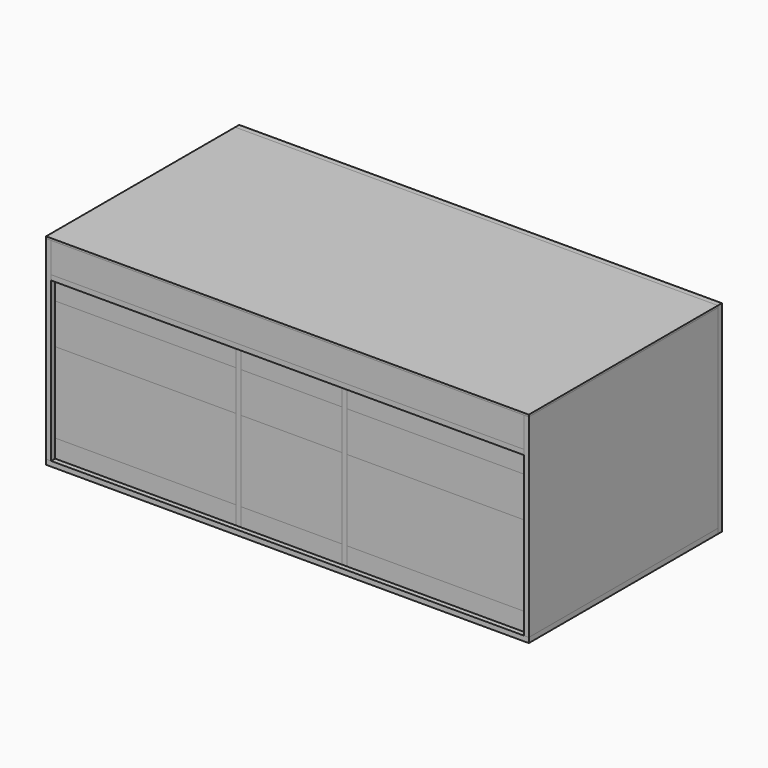
from build123d import *

# Parameters (mm, degrees)
F5_W      = 12.7
F5_H      = 5
F5_W_2    = 254
F6_DEPTH  = 596.9
F5_H_2    = 45.8
F5_H_3    = 101.6
F5_H_4    = 50.8
F5_H_5    = 76.2
F5_H_6    = 203.2
F5_H_7    = 12.7
F7_DEPTH  = 596.9
F8_DEPTH  = 596.9
F9_DEPTH  = 584.2
F10_DEPTH = 584.2
F11_DEPTH = 596.9
F5_W_3    = 457.2
F12_DEPTH = 12.7
F13_DEPTH = 596.9
F14_W     = 23.5690682663
F14_H     = 76.2
F15_DEPTH = 1193.8
F16_DEPTH = 584.2
F17_T     = -5
F17_2_T   = -5
F17_3_T   = -5
F17_4_T   = -5
F17_5_T   = -5
F17_6_T   = -5
F18_DEPTH = 584.2
F19_T     = -5
F19_2_T   = -5
F19_3_T   = -5
F19_4_T   = -5
F19_5_T   = -5
F19_6_T   = -5


with BuildPart() as f6:
    # F5 (on Front) → F6 (new body)
    with BuildSketch(Plane.XZ):
        Polygon((-139.7, 249), (-139.7, 254), (-609.6, 254), (-609.6, 249), (-596.9, 249), align=None)
        with Locations((-133.35, 251.5)):
            Rectangle(F5_W, F5_H)
        with Locations((0, 251.5)):
            Rectangle(F5_W_2, F5_H)
        with Locations((133.35, 251.5)):
            Rectangle(F5_W, F5_H)
        Polygon((609.6, 249), (609.6, 254), (139.7, 254), (139.7, 249), (596.9, 249), align=None)
    extrude(amount=F6_DEPTH)


with BuildPart() as f7:
    # F5 (on Front) → F7 (new body)
    with BuildSketch(Plane.XZ):
        with Locations((-603.25, -218.4)):
            Rectangle(F5_W, F5_H_2)
        with Locations((-603.25, 58.5)):
            Rectangle(F5_W, F5_H_3)
        with Locations((-603.25, 134.7)):
            Rectangle(F5_W, F5_H_4)
        with Locations((-603.25, 210.9)):
            Rectangle(F5_W, F5_H_5)
        with Locations((-603.25, -93.9)):
            Rectangle(F5_W, F5_H_6)
        with Locations((-603.25, 166.45)):
            Rectangle(F5_W, F5_H_7)
    extrude(amount=F7_DEPTH)


with BuildPart() as f8:
    # F5 (on Front) → F8 (new body)
    with BuildSketch(Plane.XZ):
        with Locations((603.25, 134.7)):
            Rectangle(F5_W, F5_H_4)
        with Locations((603.25, 58.5)):
            Rectangle(F5_W, F5_H_3)
        with Locations((603.25, 210.9)):
            Rectangle(F5_W, F5_H_5)
        Polygon((609.6, -241.3), (609.6, 7.7), (596.9, 7.7), (596.9, -195.5), (596.9, -241.3), align=None)
        with Locations((603.25, 166.45)):
            Rectangle(F5_W, F5_H_7)
    extrude(amount=F8_DEPTH)


with BuildPart() as f9:
    # F5 (on Front) → F9 (new body)
    with BuildSketch(Plane.XZ):
        with Locations((-133.35, 134.7)):
            Rectangle(F5_W, F5_H_4)
        with Locations((-133.35, 58.5)):
            Rectangle(F5_W, F5_H_3)
        with Locations((-133.35, -93.9)):
            Rectangle(F5_W, F5_H_6)
        with Locations((-133.35, -218.4)):
            Rectangle(F5_W, F5_H_2)
    extrude(amount=F9_DEPTH)


with BuildPart() as f10:
    # F5 (on Front) → F10 (new body)
    with BuildSketch(Plane.XZ):
        with Locations((133.35, -218.4)):
            Rectangle(F5_W, F5_H_2)
        with Locations((133.35, -93.9)):
            Rectangle(F5_W, F5_H_6)
        with Locations((133.35, 58.5)):
            Rectangle(F5_W, F5_H_3)
        with Locations((133.35, 134.7)):
            Rectangle(F5_W, F5_H_4)
    extrude(amount=F10_DEPTH)


with BuildPart() as f11:
    # F5 (on Front) → F11 (new body)
    with BuildSketch(Plane.XZ):
        Polygon((-139.7, -254), (-139.7, -241.3), (-596.9, -241.3), (-609.6, -241.3), (-609.6, -254), align=None)
        with Locations((-133.35, -247.65)):
            Rectangle(F5_W, F5_H_7)
        with Locations((0, -247.65)):
            Rectangle(F5_W_2, F5_H_7)
        with Locations((133.35, -247.65)):
            Rectangle(F5_W, F5_H_7)
        Polygon((609.6, -254), (609.6, -241.3), (596.9, -241.3), (139.7, -241.3), (139.7, -254), align=None)
    extrude(amount=F11_DEPTH)


with BuildPart() as f12:
    # F5 (on Front) → F12 (new body)
    with BuildSketch(Plane.XZ):
        with Locations((0, 166.45)):
            Rectangle(F5_W_2, F5_H_7)
        with Locations((0, -218.4)):
            Rectangle(F5_W_2, F5_H_2)
        with Locations((368.3, 134.7)):
            Rectangle(F5_W_3, F5_H_4)
        with Locations((-368.3, 58.5)):
            Rectangle(F5_W_3, F5_H_3)
        with Locations((368.3, -218.4)):
            Rectangle(F5_W_3, F5_H_2)
        with Locations((368.3, 58.5)):
            Rectangle(F5_W_3, F5_H_3)
        with Locations((133.35, 134.7)):
            Rectangle(F5_W, F5_H_4)
        with Locations((-368.3, -218.4)):
            Rectangle(F5_W_3, F5_H_2)
        with Locations((0, -93.9)):
            Rectangle(F5_W_2, F5_H_6)
        with Locations((-368.3, 166.45)):
            Rectangle(F5_W_3, F5_H_7)
        with Locations((-133.35, -93.9)):
            Rectangle(F5_W, F5_H_6)
        with Locations((-133.35, 58.5)):
            Rectangle(F5_W, F5_H_3)
        with Locations((133.35, -218.4)):
            Rectangle(F5_W, F5_H_2)
        with Locations((0, 134.7)):
            Rectangle(F5_W_2, F5_H_4)
        with Locations((-368.3, -93.9)):
            Rectangle(F5_W_3, F5_H_6)
        with Locations((368.3, -93.9)):
            Rectangle(F5_W_3, F5_H_6)
        with Locations((0, 58.5)):
            Rectangle(F5_W_2, F5_H_3)
        with Locations((-368.3, 134.7)):
            Rectangle(F5_W_3, F5_H_4)
        with Locations((133.35, -93.9)):
            Rectangle(F5_W, F5_H_6)
        with Locations((368.3, 166.45)):
            Rectangle(F5_W_3, F5_H_7)
        with Locations((133.35, 58.5)):
            Rectangle(F5_W, F5_H_3)
        with Locations((-133.35, 134.7)):
            Rectangle(F5_W, F5_H_4)
        with Locations((-133.35, -218.4)):
            Rectangle(F5_W, F5_H_2)
        with Locations((-603.25, 58.5)):
            Rectangle(F5_W, F5_H_3)
        Polygon((609.6, -254), (609.6, -241.3), (596.9, -241.3), (139.7, -241.3), (139.7, -254), align=None)
        with Locations((-603.25, 134.7)):
            Rectangle(F5_W, F5_H_4)
        with Locations((-133.35, -247.65)):
            Rectangle(F5_W, F5_H_7)
        with Locations((603.25, 58.5)):
            Rectangle(F5_W, F5_H_3)
        Polygon((-139.7, -254), (-139.7, -241.3), (-596.9, -241.3), (-609.6, -241.3), (-609.6, -254), align=None)
        with Locations((603.25, 210.9)):
            Rectangle(F5_W, F5_H_5)
        with Locations((133.35, -247.65)):
            Rectangle(F5_W, F5_H_7)
        with Locations((0, -247.65)):
            Rectangle(F5_W_2, F5_H_7)
        with Locations((-603.25, 210.9)):
            Rectangle(F5_W, F5_H_5)
        Polygon((609.6, 249), (609.6, 254), (139.7, 254), (139.7, 249), (596.9, 249), align=None)
        Polygon((-139.7, 249), (-139.7, 254), (-609.6, 254), (-609.6, 249), (-596.9, 249), align=None)
        with Locations((-603.25, -93.9)):
            Rectangle(F5_W, F5_H_6)
        Polygon((609.6, -241.3), (609.6, 7.7), (596.9, 7.7), (596.9, -195.5), (596.9, -241.3), align=None)
        with Locations((-603.25, -218.4)):
            Rectangle(F5_W, F5_H_2)
        with Locations((133.35, 251.5)):
            Rectangle(F5_W, F5_H)
        with Locations((-133.35, 166.45)):
            Rectangle(F5_W, F5_H_7)
        with Locations((0, 251.5)):
            Rectangle(F5_W_2, F5_H)
        with Locations((-133.35, 251.5)):
            Rectangle(F5_W, F5_H)
        with Locations((133.35, 210.9)):
            Rectangle(F5_W, F5_H_5)
        with Locations((603.25, 134.7)):
            Rectangle(F5_W, F5_H_4)
        with Locations((603.25, 166.45)):
            Rectangle(F5_W, F5_H_7)
        with Locations((368.3, 210.9)):
            Rectangle(F5_W_3, F5_H_5)
        with Locations((-368.3, 210.9)):
            Rectangle(F5_W_3, F5_H_5)
        with Locations((0, 210.9)):
            Rectangle(F5_W_2, F5_H_5)
        with Locations((-603.25, 166.45)):
            Rectangle(F5_W, F5_H_7)
        with Locations((-133.35, 210.9)):
            Rectangle(F5_W, F5_H_5)
        with Locations((133.35, 166.45)):
            Rectangle(F5_W, F5_H_7)
    extrude(amount=-F12_DEPTH)


with BuildPart() as f13:
    # F5 (on Front) → F13 (new body)
    with BuildSketch(Plane.XZ):
        with Locations((368.3, 166.45)):
            Rectangle(F5_W_3, F5_H_7)
        with Locations((133.35, 166.45)):
            Rectangle(F5_W, F5_H_7)
        with Locations((0, 166.45)):
            Rectangle(F5_W_2, F5_H_7)
        with Locations((-133.35, 166.45)):
            Rectangle(F5_W, F5_H_7)
        with Locations((-368.3, 166.45)):
            Rectangle(F5_W_3, F5_H_7)
    extrude(amount=F13_DEPTH)


with BuildPart() as f15:
    # F14 (on face) → F15 (new body)
    with BuildSketch(Plane.YZ.offset(-596.9)):
        with Locations((-585.1154658668, 210.9)):
            Rectangle(F14_W, F14_H)
    extrude(amount=F15_DEPTH)


with BuildPart() as f16:
    # F5 (on Front) → F16 (new body)
    with BuildSketch(Plane.XZ):
        with Locations((-368.3, 134.7)):
            Rectangle(F5_W_3, F5_H_4)
    extrude(amount=F16_DEPTH)

    # F17
    f17_openings = [f16.faces().sort_by_distance(p)[0] for p in [
        (-368.3, -292.1, 160.1),
    ]]
    offset(amount=F17_T, openings=f17_openings)


with BuildPart() as f16b:
    # F5 (on Front) → F16, piece 2 (new body)
    with BuildSketch(Plane.XZ):
        with Locations((-368.3, -93.9)):
            Rectangle(F5_W_3, F5_H_6)
    extrude(amount=F16_DEPTH)

    # F17#4
    f17_4_openings = [f16b.faces().sort_by_distance(p)[0] for p in [
        (-368.3, -292.1, 7.7),
    ]]
    offset(amount=F17_4_T, openings=f17_4_openings)


with BuildPart() as f16c:
    # F5 (on Front) → F16, piece 3 (new body)
    with BuildSketch(Plane.XZ):
        with Locations((0, 134.7)):
            Rectangle(F5_W_2, F5_H_4)
    extrude(amount=F16_DEPTH)

    # F17#2
    f17_2_openings = [f16c.faces().sort_by_distance(p)[0] for p in [
        (0, -292.1, 160.1),
    ]]
    offset(amount=F17_2_T, openings=f17_2_openings)


with BuildPart() as f16d:
    # F5 (on Front) → F16, piece 4 (new body)
    with BuildSketch(Plane.XZ):
        with Locations((0, -93.9)):
            Rectangle(F5_W_2, F5_H_6)
    extrude(amount=F16_DEPTH)

    # F17#5
    f17_5_openings = [f16d.faces().sort_by_distance(p)[0] for p in [
        (0, -292.1, 7.7),
    ]]
    offset(amount=F17_5_T, openings=f17_5_openings)


with BuildPart() as f16e:
    # F5 (on Front) → F16, piece 5 (new body)
    with BuildSketch(Plane.XZ):
        with Locations((368.3, 134.7)):
            Rectangle(F5_W_3, F5_H_4)
    extrude(amount=F16_DEPTH)

    # F17#3
    f17_3_openings = [f16e.faces().sort_by_distance(p)[0] for p in [
        (368.3, -292.1, 160.1),
    ]]
    offset(amount=F17_3_T, openings=f17_3_openings)


with BuildPart() as f16f:
    # F5 (on Front) → F16, piece 6 (new body)
    with BuildSketch(Plane.XZ):
        with Locations((368.3, -93.9)):
            Rectangle(F5_W_3, F5_H_6)
    extrude(amount=F16_DEPTH)

    # F17#6
    f17_6_openings = [f16f.faces().sort_by_distance(p)[0] for p in [
        (368.3, -292.1, 7.7),
    ]]
    offset(amount=F17_6_T, openings=f17_6_openings)


with BuildPart() as f18:
    # F5 (on Front) → F18 (new body)
    with BuildSketch(Plane.XZ):
        with Locations((368.3, 58.5)):
            Rectangle(F5_W_3, F5_H_3)
    extrude(amount=F18_DEPTH)

    # F19#3
    f19_3_openings = [f18.faces().sort_by_distance(p)[0] for p in [
        (368.3, -292.1, 109.3),
    ]]
    offset(amount=F19_3_T, openings=f19_3_openings)


with BuildPart() as f18b:
    # F5 (on Front) → F18, piece 2 (new body)
    with BuildSketch(Plane.XZ):
        with Locations((0, 58.5)):
            Rectangle(F5_W_2, F5_H_3)
    extrude(amount=F18_DEPTH)

    # F19#2
    f19_2_openings = [f18b.faces().sort_by_distance(p)[0] for p in [
        (0, -292.1, 109.3),
    ]]
    offset(amount=F19_2_T, openings=f19_2_openings)


with BuildPart() as f18c:
    # F5 (on Front) → F18, piece 3 (new body)
    with BuildSketch(Plane.XZ):
        with Locations((-368.3, 58.5)):
            Rectangle(F5_W_3, F5_H_3)
    extrude(amount=F18_DEPTH)

    # F19
    f19_openings = [f18c.faces().sort_by_distance(p)[0] for p in [
        (-368.3, -292.1, 109.3),
    ]]
    offset(amount=F19_T, openings=f19_openings)


with BuildPart() as f18d:
    # F5 (on Front) → F18, piece 4 (new body)
    with BuildSketch(Plane.XZ):
        with Locations((-368.3, -218.4)):
            Rectangle(F5_W_3, F5_H_2)
    extrude(amount=F18_DEPTH)

    # F19#4
    f19_4_openings = [f18d.faces().sort_by_distance(p)[0] for p in [
        (-368.3, -292.1, -195.5),
    ]]
    offset(amount=F19_4_T, openings=f19_4_openings)


with BuildPart() as f18e:
    # F5 (on Front) → F18, piece 5 (new body)
    with BuildSketch(Plane.XZ):
        with Locations((0, -218.4)):
            Rectangle(F5_W_2, F5_H_2)
    extrude(amount=F18_DEPTH)

    # F19#5
    f19_5_openings = [f18e.faces().sort_by_distance(p)[0] for p in [
        (0, -292.1, -195.5),
    ]]
    offset(amount=F19_5_T, openings=f19_5_openings)


with BuildPart() as f18f:
    # F5 (on Front) → F18, piece 6 (new body)
    with BuildSketch(Plane.XZ):
        with Locations((368.3, -218.4)):
            Rectangle(F5_W_3, F5_H_2)
    extrude(amount=F18_DEPTH)

    # F19#6
    f19_6_openings = [f18f.faces().sort_by_distance(p)[0] for p in [
        (368.3, -292.1, -195.5),
    ]]
    offset(amount=F19_6_T, openings=f19_6_openings)


solid = Compound([f6.part, f7.part, f8.part, f9.part, f10.part, f11.part, f12.part, f13.part, f15.part, f16.part, f16b.part, f16c.part, f16d.part, f16e.part, f16f.part, f18.part, f18b.part, f18c.part, f18d.part, f18e.part, f18f.part])
